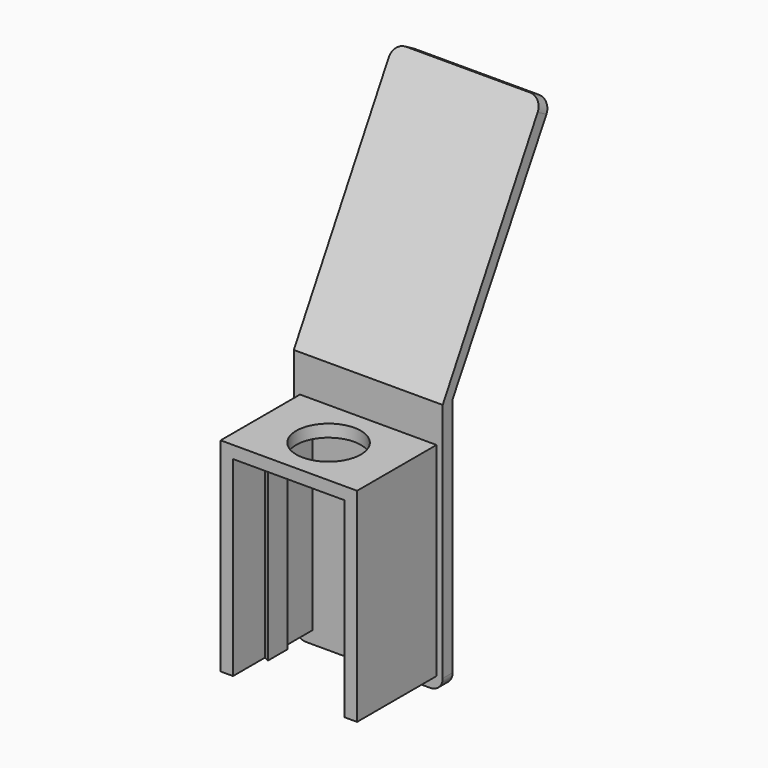
from build123d import *

# Parameters (mm, degrees)
F0_W      = 5
F0_H      = 102
F1_DEPTH  = 60
F2_W      = 5
F2_H      = 82
F3_DEPTH  = 40
F4_R      = 5
F5_W      = 45
F5_H      = 5
F6_DEPTH  = 40
F7_R      = 13
F8_DEPTH  = 25
F10_DEPTH = 77
F12_DEPTH = 77


with BuildPart() as f1:
    # F0 (on Right) → F1 (new body)
    with BuildSketch(Plane.YZ):
        Polygon((47.787035, 88.742403), (-2.5, 0), (2.5, 0), (52.248346, 86.166664), align=None)
        with Locations((0, -51)):
            Rectangle(F0_W, F0_H)
    extrude(amount=F1_DEPTH)

    # F2 (on face) → F3 (join)
    with BuildSketch(Plane.XZ.offset(2.5)):
        with Locations((5, -56)):
            Rectangle(F2_W, F2_H)
        with Locations((55, -56)):
            Rectangle(F2_W, F2_H)
    extrude(amount=F3_DEPTH)

    # F4
    f4_edges = [f1.edges().sort_by_distance(p)[0] for p in [
        (0, 50.017691, 87.454534),
        (60, 50.017691, 87.454534),
        (60, 0, -102),
        (0, 0, -102),
    ]]
    fillet(f4_edges, radius=F4_R)

    # F5 (on face) → F6 (join)
    with BuildSketch(Plane.XZ.offset(2.5)):
        with Locations((30, -17.5)):
            Rectangle(F5_W, F5_H)
    extrude(amount=F6_DEPTH)

    # F7 (on face) → F8 (cut)
    with BuildSketch(Plane.XY.offset(-15)):
        with Locations((30, -22.5)):
            Circle(F7_R)
    extrude(amount=-F8_DEPTH, mode=Mode.SUBTRACT)

    # F9 (on face) → F10 (join, through all)
    with BuildSketch(Plane(origin=(0, 0, -97), x_dir=(1, 0, 0), z_dir=(0, 0, -1))):
        Polygon((9.5, 27.5), (7.5, 26.5), (7.5, 18.5), (9.5, 17.5), (9.5, 18.5), (9.5, 26.5), align=None)
    extrude(amount=-F10_DEPTH)

    # F11 (on face) → F12 (join, through all)
    with BuildSketch(Plane(origin=(0, 0, -97), x_dir=(1, 0, 0), z_dir=(0, 0, -1))):
        Polygon((52.5, 18.5), (52.5, 26.5), (50.5, 27.5), (50.5, 26.5), (50.5, 18.5), (50.5, 17.5), align=None)
    extrude(amount=-F12_DEPTH)


solid = f1.part
